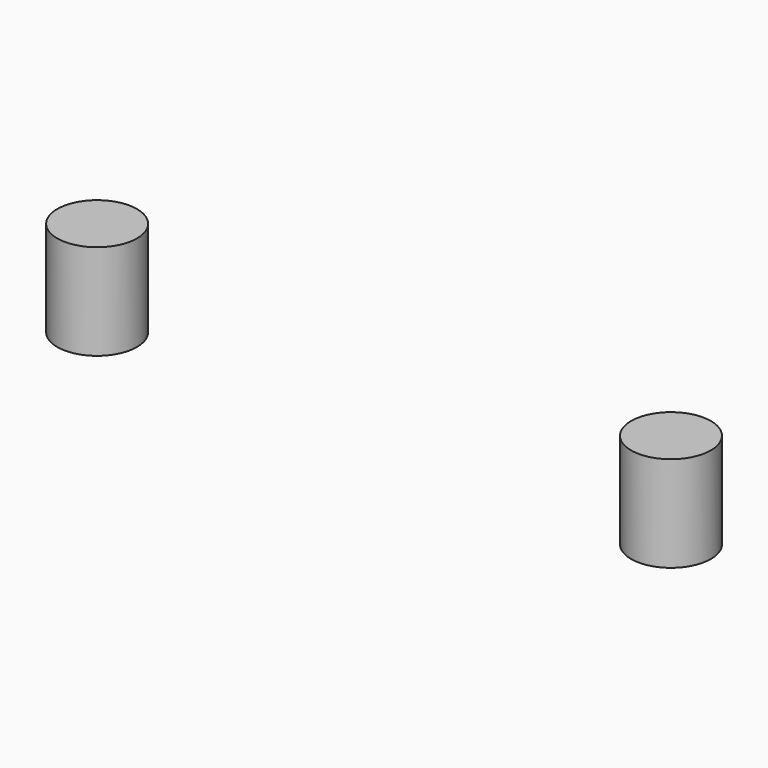
from build123d import *

# Parameters (mm, degrees)
F0_R     = 7.9375
F1_DEPTH = 19.05


with BuildPart() as f1:
    # F0 (on Top) → F1 (new body)
    with BuildSketch(Plane.XY):
        with Locations((-114.3, 0)):
            Circle(F0_R)
        Circle(F0_R)
    extrude(amount=-F1_DEPTH)


solid = f1.part
